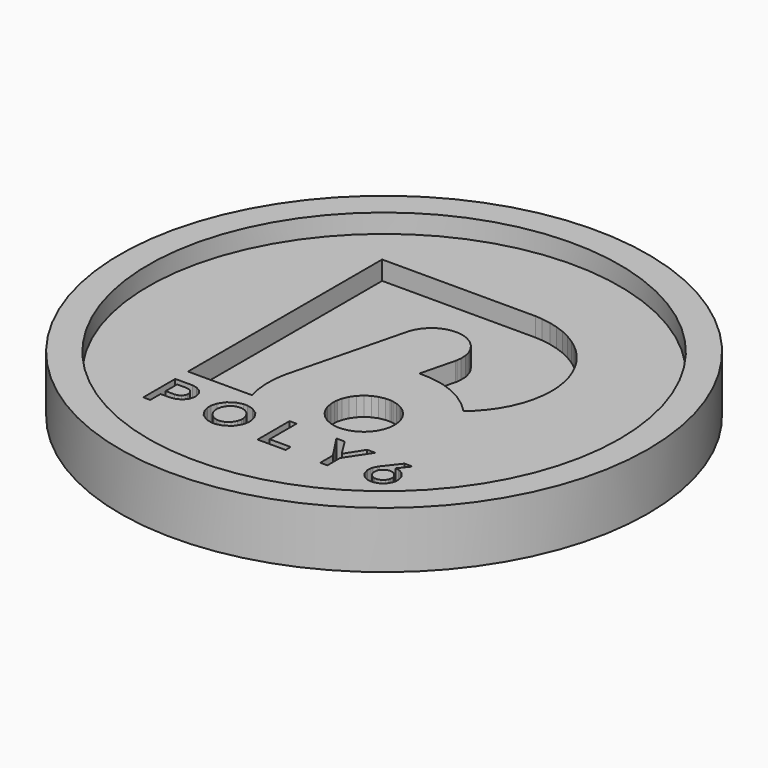
from build123d import *

# Parameters (mm, degrees)
F0_R          = 12.5
F2_DEPTH      = 2
F3_DEPTH      = 1
F4_R          = 14
F4_R_2        = 12.5
F5_DEPTH      = 1
F5_DEPTH_BACK = 2


with BuildPart() as f2:
    # F0 (on Top) → F2 (new body)
    with BuildSketch(Plane.XY):
        Circle(F0_R)
    extrude(amount=-F2_DEPTH)

    # F1 (on Top) → F3 (cut)
    with BuildSketch(Plane.XY):
        Polygon((1.684259, 7.919072), (1.561551, 7.919072), (-6.438449, 7.919072), (-6.438449, -4.953397), (-3.03714, -4.953397), (-3.079678, -4.812968), (-3.170724, -4.380984), (-3.229034, -3.789683), (-3.208033, -3.186119), (-3.139902, -2.72666), (-3.103658, -2.576938), (-3.104723, -2.577293), (-1.574881, 3.509541), (-1.554742, 3.589905), (-1.46192, 3.822474), (-1.293996, 4.098227), (-1.079306, 4.33183), (-0.825436, 4.518667), (-0.540904, 4.6538), (-0.233586, 4.732776), (0.088739, 4.750494), (0.337575, 4.722286), (0.417777, 4.701986), (0.497947, 4.681814), (0.730516, 4.589025), (1.006108, 4.42094), (1.239678, 4.206089), (1.426515, 3.952379), (1.561713, 3.667815), (1.640462, 3.360369), (1.658181, 3.038011), (1.630167, 2.789175), (1.610028, 2.708812), (1.154441, 0.895665), (1.258236, 0.89915), (1.78247, 0.873912), (2.310964, 0.788481), (2.416889, 0.761855), (2.58391, 0.719866), (3.072835, 0.543324), (3.673237, 0.236556), (4.212221, -0.148801), (4.575341, -0.482035), (4.684622, -0.603742), (4.783382, -0.521281), (5.062136, -0.252983), (5.400244, 0.135859), (5.69562, 0.559784), (5.945166, 1.015274), (6.144945, 1.498874), (6.291858, 2.007359), (6.382581, 2.537402), (6.413565, 2.948514), (6.413565, 3.085455), (6.413565, 3.208356), (6.388197, 3.576962), (6.31374, 4.054625), (6.192937, 4.516375), (6.028337, 4.959568), (5.822265, 5.381718), (5.577463, 5.780405), (5.296578, 6.152852), (4.981902, 6.49693), (4.636307, 6.809831), (4.262117, 7.089134), (3.861978, 7.332322), (3.43844, 7.536845), (2.994021, 7.70038), (2.531399, 7.820344), (2.053059, 7.894059), align=None)
        Polygon((1.868643, -1.747291), (1.787247, -1.738545), (1.705657, -1.729637), (1.457692, -1.735769), (1.143726, -1.797058), (0.852901, -1.916119), (0.591994, -2.08769), (0.368429, -2.305542), (0.189241, -2.564158), (0.061983, -2.857629), (0.002469, -3.098558), (-0.006342, -3.180148), (-0.01525, -3.261609), (-0.009118, -3.509864), (0.051978, -3.823991), (0.171232, -4.115204), (0.342642, -4.376078), (0.560494, -4.599708), (0.818916, -4.778825), (1.112194, -4.906125), (1.353155, -4.965484), (1.434777, -4.974411), (1.516174, -4.983167), (1.7643, -4.977038), (2.078233, -4.915752), (2.369446, -4.796508), (2.630482, -4.625076), (2.854144, -4.407094), (3.033267, -4.148479), (3.160557, -3.854813), (3.220071, -3.613723), (3.229012, -3.532295), (3.237758, -3.450705), (3.231658, -3.202546), (3.170337, -2.888613), (3.051082, -2.597594), (2.879511, -2.336719), (2.66153, -2.113251), (2.402882, -1.934128), (2.109572, -1.80687), align=None)
        Polygon((5.96495, -6.416889), (5.892623, -6.394649), (5.876002, -6.389398), (5.709659, -6.364008), (5.693038, -6.363485), (6.147397, -5.797558), (5.724537, -5.798607), (5.066332, -6.637514), (5.066138, -6.637514), (5.065299, -6.638563), (5.065299, -6.638741), (5.02728, -6.687239), (5.030411, -6.689692), (5.018534, -6.706152), (4.924131, -6.889307), (4.91787, -6.909972), (4.895439, -6.982286), (4.886854, -7.217796), (4.973543, -7.503735), (5.16109, -7.736444), (5.360514, -7.861988), (5.433002, -7.884228), (5.505297, -7.906465), (5.740997, -7.915044), (6.026949, -7.828545), (6.259454, -7.641011), (6.385196, -7.441574), (6.407594, -7.369257), (6.429831, -7.296765), (6.438449, -7.061259), (6.351921, -6.77532), (6.164374, -6.542437), align=None)
        Polygon((6.118512, -7.232678), (6.105376, -7.275751), (6.092079, -7.318828), (6.017493, -7.437372), (5.879132, -7.54891), (5.70911, -7.600391), (5.569233, -7.595311), (5.526146, -7.582178), (5.48306, -7.568871), (5.364548, -7.494104), (5.25333, -7.355776), (5.202046, -7.185925), (5.207307, -7.045847), (5.220604, -7.002948), (5.23374, -6.959875), (5.308165, -6.841327), (5.446299, -6.729968), (5.616321, -6.678487), (5.756231, -6.683563), (5.799317, -6.696873), (5.84221, -6.710177), (5.960722, -6.784773), (6.072295, -6.922924), (6.123773, -7.092775), align=None, mode=Mode.SUBTRACT)
        Polygon((2.950773, -7.082618), (2.950773, -7.919072), (3.326739, -7.919072), (3.326739, -7.073687), (4.169457, -5.797558), (3.741853, -5.797558), (3.142, -6.73417), (2.550667, -5.797558), (2.108184, -5.797558), align=None)
        Polygon((-0.37682, -5.797558), (-0.37682, -7.919072), (1.111161, -7.919072), (1.111161, -7.579728), (-0.004212, -7.579728), (-0.004212, -5.797558), align=None)
        Polygon((-6.438449, -5.797558), (-6.438449, -7.919072), (-6.065659, -7.919072), (-6.065659, -7.237232), (-5.644193, -7.237232), (-5.561897, -7.237232), (-5.314833, -7.190831), (-5.045002, -7.053377), (-4.862725, -6.826623), (-4.795659, -6.591113), (-4.795659, -6.512667), (-4.795659, -6.506716), (-4.795659, -6.433872), (-4.851868, -6.215697), (-5.012434, -5.991918), (-5.26633, -5.848162), (-5.517945, -5.797558), (-5.601817, -5.797558), align=None)
        Polygon((-5.63211, -6.900867), (-6.065659, -6.900867), (-6.065659, -6.137079), (-5.63211, -6.137079), (-5.584834, -6.137079), (-5.443004, -6.161243), (-5.298721, -6.233206), (-5.206794, -6.351753), (-5.1744, -6.474844), (-5.1744, -6.515994), (-5.1744, -6.52212), (-5.1744, -6.56012), (-5.206442, -6.674636), (-5.297672, -6.794407), (-5.441778, -6.872672), (-5.58466, -6.900867), align=None, mode=Mode.SUBTRACT)
        Polygon((-2.825258, -7.919072), (-2.71688, -7.919072), (-2.60847, -7.919072), (-2.282982, -7.8345), (-1.942939, -7.605116), (-1.720923, -7.267696), (-1.641398, -6.960924), (-1.641398, -6.858662), (-1.641398, -6.852536), (-1.641398, -6.750278), (-1.720019, -6.444026), (-1.93997, -6.108536), (-2.277883, -5.881082), (-2.602532, -5.797558), (-2.710748, -5.797558), (-2.819287, -5.797558), (-3.144807, -5.88213), (-3.485035, -6.111515), (-3.707235, -6.449106), (-3.786556, -6.756233), (-3.786556, -6.858662), (-3.786556, -6.864091), (-3.786556, -6.966178), (-3.70811, -7.272601), (-3.488011, -7.608094), (-3.149907, -7.835374), align=None)
        Polygon((-2.640874, -7.585157), (-2.710748, -7.585157), (-2.781139, -7.585157), (-2.991762, -7.527547), (-3.212581, -7.371181), (-3.35686, -7.140228), (-3.408512, -6.929056), (-3.408512, -6.858662), (-3.408512, -6.852536), (-3.408512, -6.782146), (-3.357735, -6.571151), (-3.215556, -6.34107), (-2.996861, -6.185578), (-2.786916, -6.128672), (-2.71688, -6.128672), (-2.646651, -6.128672), (-2.435996, -6.186634), (-2.2154, -6.344046), (-2.071262, -6.576231), (-2.019462, -6.787923), (-2.019462, -6.858662), (-2.019462, -6.864091), (-2.019462, -6.934307), (-2.070229, -7.144956), (-2.212592, -7.373982), (-2.431122, -7.528425), align=None, mode=Mode.SUBTRACT)
    extrude(amount=-F3_DEPTH, mode=Mode.SUBTRACT)

    # F4 (on Top) → F5 (join, two sides)
    with BuildSketch(Plane.XY) as f5_sk:
        Circle(F4_R)
        Circle(F4_R_2, mode=Mode.SUBTRACT)
    extrude(amount=F5_DEPTH)
    extrude(f5_sk.sketch, amount=-F5_DEPTH_BACK)


solid = f2.part
